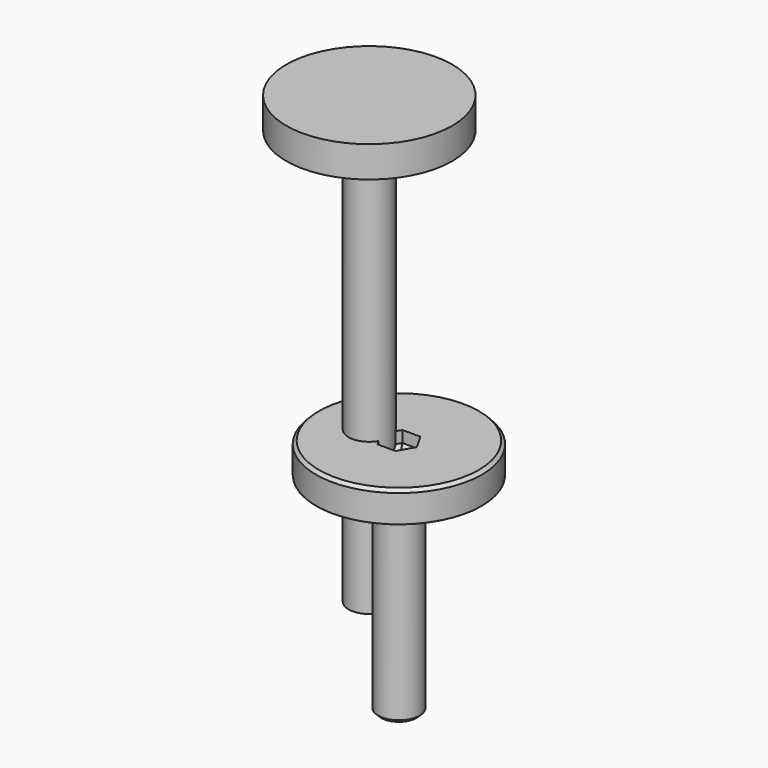
from build123d import *

# Parameters (mm, degrees)
F3_DEPTH = 1.6
F4_SIZE2 = 0.8660254038
F4_SIZE  = 0.5
F5_SIZE  = 0.3
F6_R     = 0.1


with BuildPart() as f1:
    # F0 (on Front) → F1 (revolve)
    with BuildSketch(Plane.XZ):
        Polygon((8, 0), (0, 0), (0, -23), (2, -23), (2, -3), (8, -3), align=None)
    revolve(axis=Axis((0, 0, -11.5), (0, 0, 1)))

    # F2 (on face) → F3 (cut)
    with BuildSketch(Plane.XY):
        Polygon((0.8660254038, 1.5), (-0.8660254038, 1.5), (-1.7320508076, 0), (-0.8660254038, -1.5), (0.8660254038, -1.5), (1.7320508076, 0), align=None)
    extrude(amount=-F3_DEPTH, mode=Mode.SUBTRACT)

    # F4
    f4_edges = [f1.edges().sort_by_distance(p)[0] for p in [
        (0, 1.5, -1.6),
        (-1.299038, 0.75, -1.6),
        (-1.299038, -0.75, -1.6),
        (0, -1.5, -1.6),
        (1.299038, -0.75, -1.6),
        (1.299038, 0.75, -1.6),
    ]]
    chamfer(f4_edges, length=F4_SIZE, length2=F4_SIZE2)

    # F5
    f5_edges = [f1.edges().sort_by_distance(p)[0] for p in [
        (-8, 0, 0),
        (-2, 0, -23),
    ]]
    chamfer(f5_edges, length=F5_SIZE)

    # F6
    f6_edges = [f1.edges().sort_by_distance(p)[0] for p in [
        (-8, 0, -3),
    ]]
    fillet(f6_edges, radius=F6_R)


with BuildPart() as f7_1:
    # F7: copy of F1
    add(f1.part)


with BuildPart() as f10:
    # F9 (on Front) → F10 (revolve)
    with BuildSketch(Plane.XZ):
        Polygon((5.1428571429, 28.3832729334), (-2.8571428571, 28.3832729334), (-2.8571428571, -14.6167270666), (-0.8571428571, -14.6167270666), (-0.8571428571, 25.3832729334), (5.1428571429, 25.3832729334), align=None)
    revolve(axis=Axis((-2.8571428571, 0, 6.8832729334), (0, 0, 1)))


solid = Compound([f1.part, f10.part])
